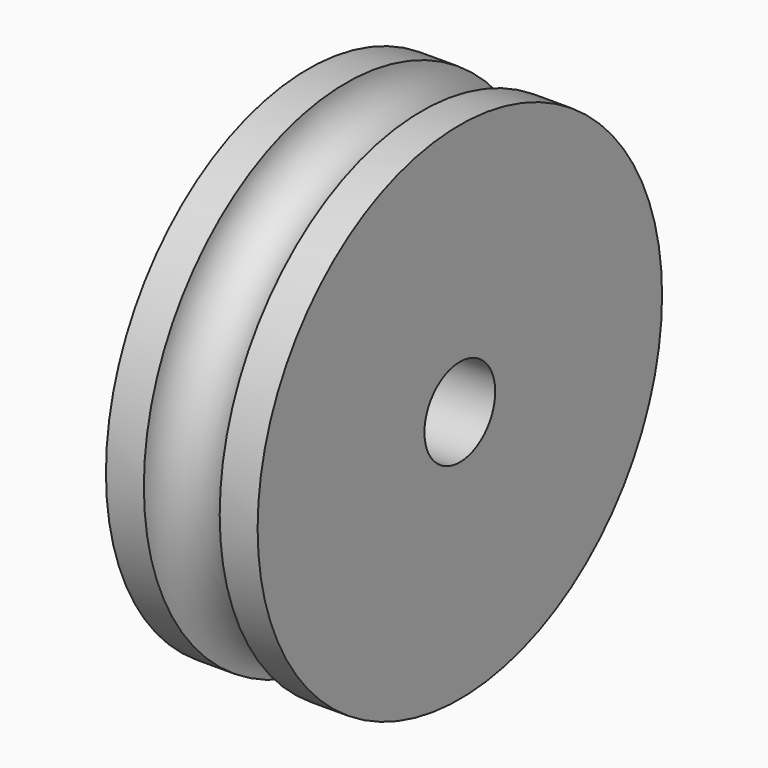
from build123d import *

# Parameters (mm, degrees)
F3_R     = 1.75
F4_DEPTH = 6
F5_R     = 3.25
F6_DEPTH = 3


with BuildPart() as f1:
    # F0 (on Top) → F1 (revolve)
    with BuildSketch(Plane.XY):
        with BuildLine():
            Line((-3, 0), (3, 0))
            Line((3, 0), (3, 10))
            Line((3, 10), (1.5, 10))
            ThreePointArc((1.5, 10), (0, 8.5), (-1.5, 10))
            Line((-1.5, 10), (-3, 10))
            Line((-3, 10), (-3, 0))
        make_face()
    revolve(axis=Axis((0, 0, 0), (1, 0, 0)))

    # F3 (on offset) → F4 (cut, through all)
    with BuildSketch(Plane(origin=(-3, 0, 0), x_dir=(0, -1, 0), z_dir=(-1, 0, 0))):
        Circle(F3_R)
    extrude(amount=-F4_DEPTH, mode=Mode.SUBTRACT)

    # F5 (on offset) → F6 (cut)
    with BuildSketch(Plane(origin=(-3, 0, 0), x_dir=(0, -1, 0), z_dir=(-1, 0, 0))):
        Circle(F5_R)
    extrude(amount=-F6_DEPTH, mode=Mode.SUBTRACT)


solid = f1.part
